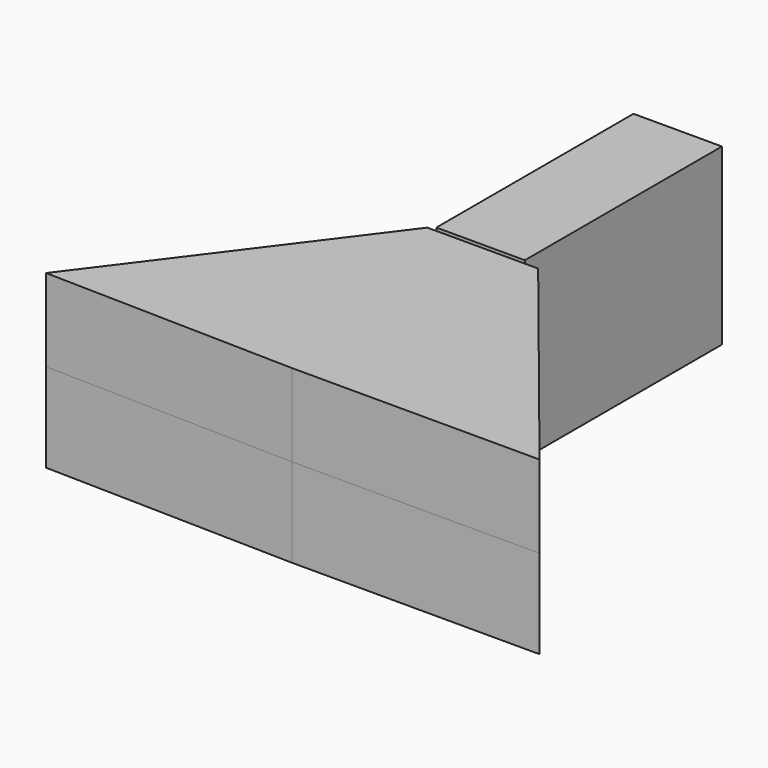
from build123d import *

# Parameters (mm, degrees)
F1_DEPTH = 27.352169
F2_DEPTH = 25.4
F3_W     = 27.226661
F3_H     = 75.820871
F4_DEPTH = 53.679109


with BuildPart() as f1:
    # F0 (on Top) → F1 (new body)
    with BuildSketch(Plane.XY):
        Polygon((76.174475, -77.402756), (13.830355, 0), (0, 0), (0, -77.402756), align=None)
        Polygon((76.174475, -77.402756), (13.830355, 0), (0, 0), (0, -77.402756), align=None)
        Polygon((0, -77.402756), (0, 0), (-20.289583, 0), (-77.059858, -75.694472), align=None)
    extrude(amount=F1_DEPTH)

    # F1_face (on face) + F0 (on Top) → F2 (join)
    with BuildSketch(Plane(origin=(-1.466793, -46.658451, 27.352169), x_dir=(1, 0, 0), z_dir=(0, 0, 1))):
        Polygon((1.466793, -30.744304), (77.641268, -30.744304), (15.297148, 46.658451), (-18.82279, 46.658451), (-75.593064, -29.03602), align=None)
    with BuildSketch(Plane.XY):
        Polygon((76.174475, -77.402756), (13.830355, 0), (0, 0), (0, -77.402756), align=None)
        Polygon((0, -77.402756), (0, 0), (-20.289583, 0), (-77.059858, -75.694472), align=None)
    extrude(amount=F2_DEPTH)

    # F3 (on Top) → F4 (join)
    with BuildSketch(Plane.XY):
        with Locations((-3.883975, 37.910435)):
            Rectangle(F3_W, F3_H)
        with Locations((-3.883975, 37.910435)):
            Rectangle(F3_W, F3_H)
    extrude(amount=F4_DEPTH)


solid = f1.part
